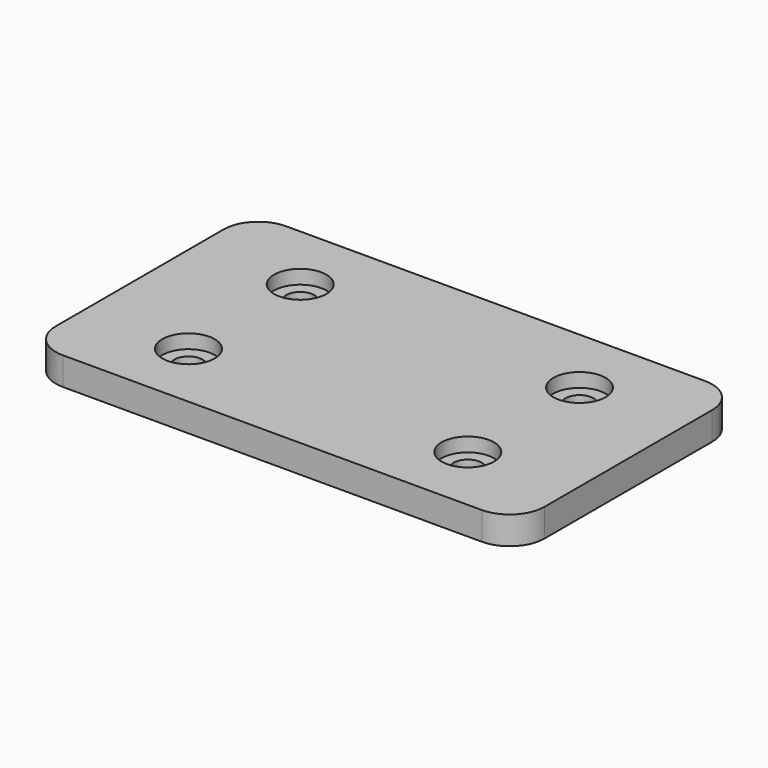
from build123d import *

# Parameters (mm, degrees)
F0_W     = 35
F0_H     = 40
F1_DEPTH = 4
F2_R     = 5
F3_R     = 3.75
F4_DEPTH = 2
F5_R     = 2
F6_DEPTH = 5
F7_R     = 2
F8_DEPTH = 5


with BuildPart() as f1:
    # F0 (on Top) → F1 (new body)
    with BuildSketch(Plane.XY):
        with Locations((-15.016379, 5.064304)):
            Rectangle(F0_W, F0_H)
    extrude(amount=F1_DEPTH)

    # F2
    f2_edges = [f1.edges().sort_by_distance(p)[0] for p in [
        (-32.516379, 25.064304, 2),
        (-32.516379, -14.935696, 2),
    ]]
    fillet(f2_edges, radius=F2_R)

    # F3 (on face) → F4 (cut)
    with BuildSketch(Plane.XY.offset(4)):
        with Locations((-17.516379, -4.935696)):
            Circle(F3_R)
        with Locations((-17.516379, 15.064304)):
            Circle(F3_R)
    extrude(amount=-F4_DEPTH, mode=Mode.SUBTRACT)

    # F5 (on face) → F6 (cut)
    with BuildSketch(Plane.XY.offset(2)):
        with Locations((-17.516379, 15.064304)):
            Circle(F5_R)
    extrude(amount=-F6_DEPTH, mode=Mode.SUBTRACT)

    # F7 (on face) → F8 (cut)
    with BuildSketch(Plane.XY.offset(2)):
        with Locations((-17.516379, -4.935696)):
            Circle(F7_R)
    extrude(amount=-F8_DEPTH, mode=Mode.SUBTRACT)

    # F9: F1 across face


with BuildPart() as f1_1:
    add(f1.part)
    add(f1.part.mirror(Plane(origin=(2.483621, 5.064304, 2), x_dir=(0, 1, 0), z_dir=(1, 0, 0))))


solid = f1_1.part
